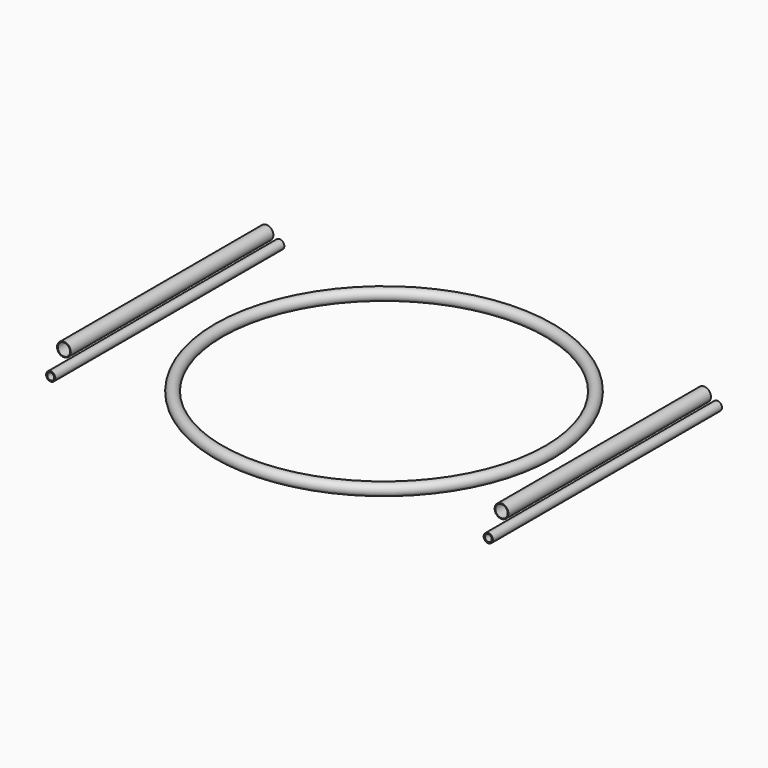
from build123d import *

# Parameters (mm, degrees)
F0_R     = 13.335
F0_R_2   = 10.5
F2_R     = 15.875
F2_R_2   = 14.224
F3_DEPTH = 292.1
F4_R     = 10.668
F4_R_2   = 7.8995
F5_DEPTH = 330.2


with BuildPart() as f1:
    # F0 (on Front) → F1 (revolve)
    with BuildSketch(Plane.XZ):
        with Locations((381, 0)):
            Circle(F0_R)
        with Locations((381, 0)):
            Circle(F0_R_2, mode=Mode.SUBTRACT)
        with Locations((381, 0)):
            Circle(F0_R_2)
    revolve(axis=Axis((0, 0, 10), (0, 0, 1)))


with BuildPart() as f3:
    # F2 (on Front) → F3 (new body, symmetric)
    with BuildSketch(Plane.XZ):
        with Locations((504.825, 39.243)):
            Circle(F2_R)
        with Locations((504.825, 39.243)):
            Circle(F2_R_2, mode=Mode.SUBTRACT)
    extrude(amount=F3_DEPTH, both=True)


with BuildPart() as f5:
    # F4 (on Front) → F5 (new body, symmetric)
    with BuildSketch(Plane.XZ):
        with Locations((504.825, 0)):
            Circle(F4_R)
        with Locations((504.825, 0)):
            Circle(F4_R_2, mode=Mode.SUBTRACT)
    extrude(amount=F5_DEPTH, both=True)


with BuildPart() as f6_1:
    # F6: instance of F3
    add(f3.part.mirror(Plane.YZ))


with BuildPart() as f7_1:
    # F7: instance of F5
    add(f5.part.mirror(Plane.YZ))


solid = Compound([f1.part, f3.part, f5.part, f6_1.part, f7_1.part])
